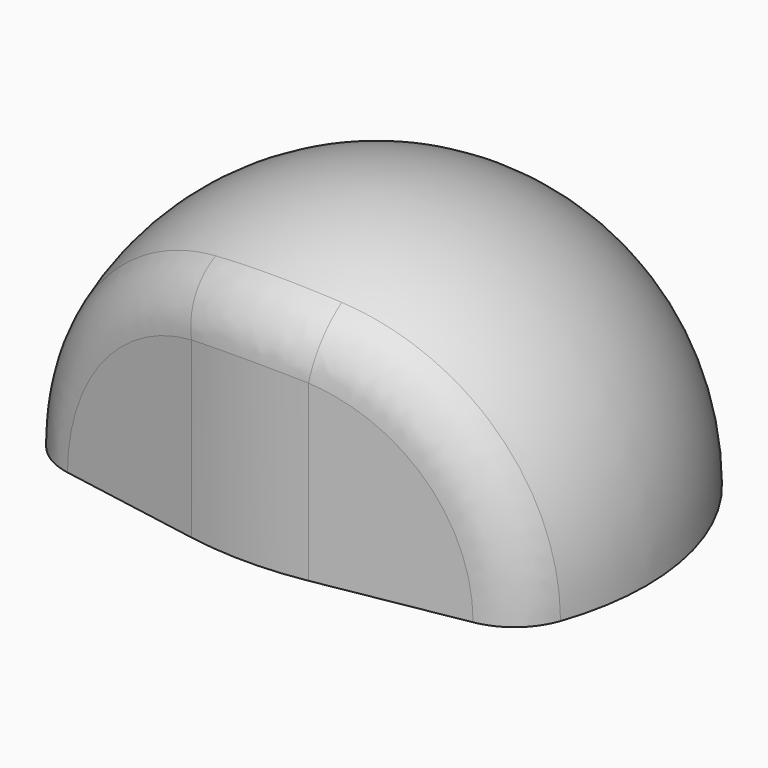
from build123d import *

# Parameters (mm, degrees)
F3_DEPTH = 25
F4_R     = 10
F5_R     = 2


with BuildPart() as f1:
    # F0 (on Front) → F1 (revolve)
    with BuildSketch(Plane.XZ):
        with BuildLine():
            Line((0, 5.5), (1.5, 4))
            Line((1.5, 4), (1.5, 0))
            Line((1.5, 0), (8, 0))
            ThreePointArc((8, 0), (5.6568542495, 5.6568542495), (0, 8))
            Line((0, 8), (0, 5.5))
        make_face()
    revolve(axis=Axis((0, 0, 2.75), (0, 0, -1)))

    # F2 (on Top) → F3 (cut)
    with BuildSketch(Plane.XY):
        Polygon((28.3564090981, 0), (0, -5), (-28.3564090981, 0), (-28.3564090981, -16.375022141), (0, -16.375022141), (28.3564090981, -16.375022141), align=None)
    extrude(amount=F3_DEPTH, mode=Mode.SUBTRACT)

    # F4
    f4_edges = [f1.edges().sort_by_distance(p)[0] for p in [
        (0, -5, 3.122499),
    ]]
    fillet(f4_edges, radius=F4_R)

    # F5
    f5_edges = [f1.edges().sort_by_distance(p)[0] for p in [
        (-5.546967, -4.02192, 4.129808),
    ]]
    fillet(f5_edges, radius=F5_R)


solid = f1.part
